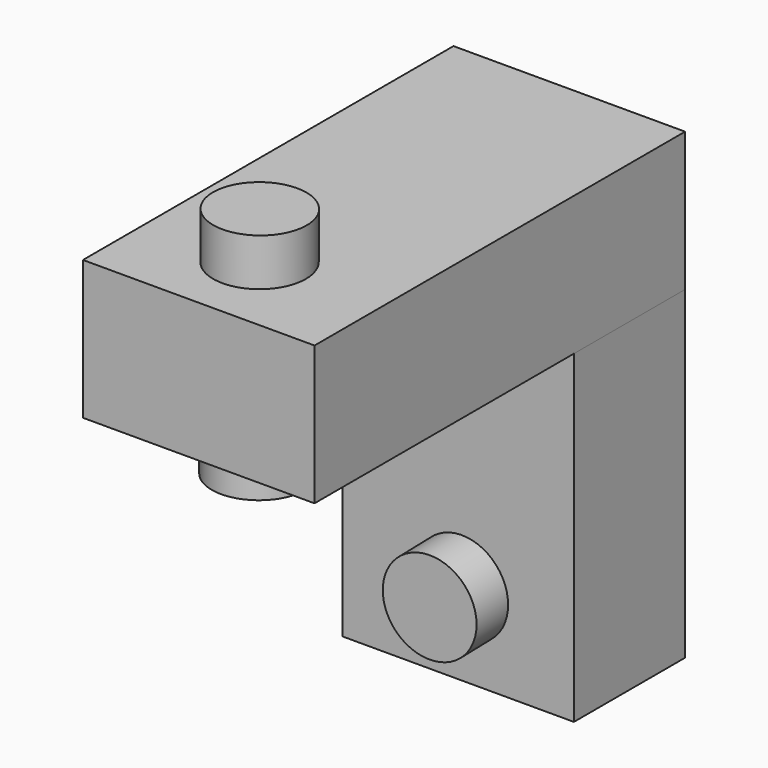
from build123d import *

# Parameters (mm, degrees)
BOX_W                       = 5
BOX_H                       = 3
BOX_DEPTH                   = 10
BOX001_W                    = 10
BOX001_H                    = 5
BOX001_DEPTH                = 3
BOX001_PLACEMENT_ANGLE      = 90
CYLINDER_R                  = 1
CYLINDER_DEPTH              = 5
CYLINDER_ROLL_ANGLE         = -91.03276
CYLINDER_PITCH_ANGLE        = 52.465024
CYLINDER_PLACEMENT_ANGLE    = -179.910915
CYLINDER001_R               = 1
CYLINDER001_DEPTH           = 5
CYLINDER001_ROLL_ANGLE      = -0.744239
CYLINDER001_PITCH_ANGLE     = -0.281174
CYLINDER001_PLACEMENT_ANGLE = -1.885723


with BuildPart() as vertical_cube:
    # Box → Box (new body)
    with BuildSketch(Plane.XY):
        with Locations((2.5, 1.5)):
            Rectangle(BOX_W, BOX_H)
    extrude(amount=BOX_DEPTH)


with BuildPart() as horizontal_cube:
    # Box001 → Box001 (new body)
    with BuildSketch(Plane.XY):
        with Locations((5, 2.5)):
            Rectangle(BOX001_W, BOX001_H)
    extrude(amount=BOX001_DEPTH)


with BuildPart() as horizontal_cube_1:
    # Box001 placement: moved
    add(horizontal_cube.part.moved(Location((5, -7, 7))).rotate(Axis((5, -7, 7), (0, 0, 1)), BOX001_PLACEMENT_ANGLE))


with BuildPart() as obj1:
    # Cylinder → Cylinder (new body)
    with BuildSketch(Plane.XY):
        Circle(CYLINDER_R)
    extrude(amount=CYLINDER_DEPTH)


with BuildPart() as obj1_1:
    # Cylinder roll: moved
    add(obj1.part.rotate(Axis((0, 0, 0), (1, 0, 0)), CYLINDER_ROLL_ANGLE))


with BuildPart() as obj1_2:
    # Cylinder pitch: moved
    add(obj1_1.part.rotate(Axis((0, 0, 0), (0, 1, 0)), CYLINDER_PITCH_ANGLE))


with BuildPart() as obj1_3:
    # Cylinder placement: moved
    add(obj1_2.part.moved(Location((2.514326, 4.114941, 1.808831))).rotate(Axis((2.514326, 4.114941, 1.808831), (0, 0, 1)), CYLINDER_PLACEMENT_ANGLE))


with BuildPart() as obj2:
    # Cylinder001 → Cylinder001 (new body)
    with BuildSketch(Plane.XY):
        Circle(CYLINDER001_R)
    extrude(amount=CYLINDER001_DEPTH)


with BuildPart() as obj2_1:
    # Cylinder001 roll: moved
    add(obj2.part.rotate(Axis((0, 0, 0), (1, 0, 0)), CYLINDER001_ROLL_ANGLE))


with BuildPart() as obj2_2:
    # Cylinder001 pitch: moved
    add(obj2_1.part.rotate(Axis((0, 0, 0), (0, 1, 0)), CYLINDER001_PITCH_ANGLE))


with BuildPart() as obj2_3:
    # Cylinder001 placement: moved
    add(obj2_2.part.moved(Location((2.385931, -5.246496, 6.001927))).rotate(Axis((2.385931, -5.246496, 6.001927), (0, 0, 1)), CYLINDER001_PLACEMENT_ANGLE))


solid = Compound([vertical_cube.part, horizontal_cube_1.part, obj1_3.part, obj2_3.part])
